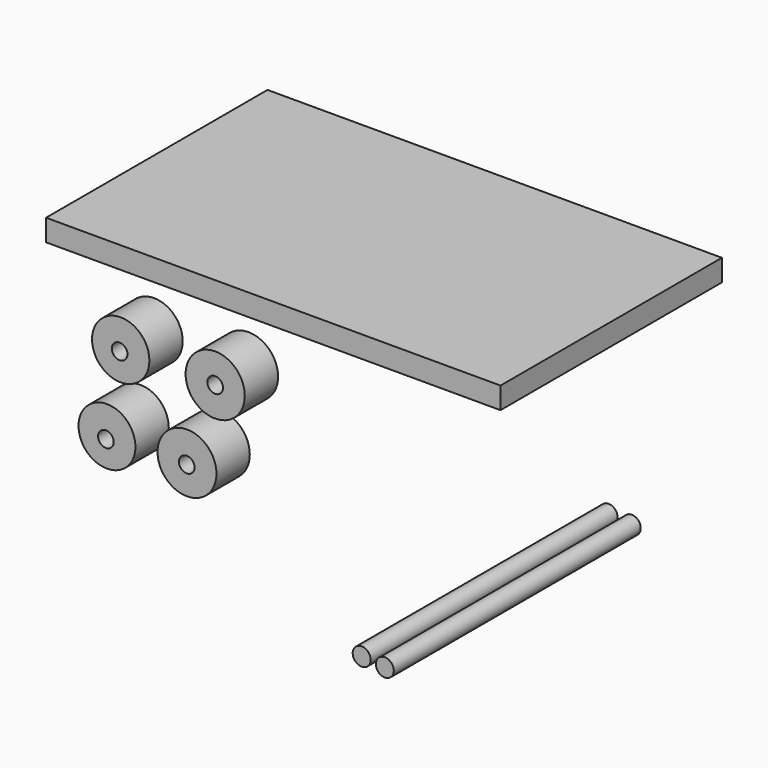
from build123d import *

# Parameters (mm, degrees)
F0_W     = 110.7842847705
F0_H     = 67.478954792
F1_DEPTH = 5.28892
F2_R     = 2.1815082671
F3_DEPTH = 75.25969
F2_R_2   = 2.1905469229
F4_R     = 8.0140895642
F5_DEPTH = 10.16
F4_R_2   = 7.6854396297
F8_R     = 6.9384570924
F9_DEPTH = 10.16
F8_R_2   = 7.1806103859
F8_R_3   = 6.9896641343
F8_R_4   = 7.2163002878
F11_D    = 3.81
F11_2_D  = 3.81
F11_3_D  = 3.81
F11_4_D  = 3.81


with BuildPart() as f1:
    # F0 (on Top) → F1 (new body)
    with BuildSketch(Plane.XY):
        with Locations((-3.0461288989, -0.3221817315)):
            Rectangle(F0_W, F0_H)
    extrude(amount=F1_DEPTH)


with BuildPart() as f3:
    # F2 (on Front) → F3 (new body)
    with BuildSketch(Plane.XZ):
        with Locations((57.1079216897, -36.9122102857)):
            Circle(F2_R)
    extrude(amount=F3_DEPTH)


with BuildPart() as f3b:
    # F2 (on Front) → F3, piece 2 (new body)
    with BuildSketch(Plane.XZ):
        with Locations((51.4614060521, -36.4021025598)):
            Circle(F2_R_2)
    extrude(amount=F3_DEPTH)


with BuildPart() as f5:
    # F4 (on Front) → F5 (new body)
    with BuildSketch(Plane.XZ):
        with Locations((-34.715604037, -49.3302866817)):
            Circle(F4_R)
    extrude(amount=F5_DEPTH)


with BuildPart() as f5b:
    # F4 (on Front) → F5, piece 2 (new body)
    with BuildSketch(Plane.XZ):
        with Locations((-53.678587079, -50.7312454283)):
            Circle(F4_R_2)
    extrude(amount=F5_DEPTH)


with BuildPart() as f9:
    # F8 (on Front) → F9 (new body)
    with BuildSketch(Plane.XZ):
        with Locations((-62.714509666, -52.7455173433)):
            Circle(F8_R)
    extrude(amount=F9_DEPTH)

    # F11 (through all)
    with Locations(Plane(origin=(0, 0, 0), x_dir=(-1, 0, 0), z_dir=(0, 1, 0))):
        with Locations((36.3346636295, -33.1391692162), (59.62478742, -33.5132144392), (62.9757493734, -53.4351728857), (43.2678461075, -52.4832382798)):
            Hole(F11_D / 2)


with BuildPart() as f9b:
    # F8 (on Front) → F9, piece 2 (new body)
    with BuildSketch(Plane.XZ):
        with Locations((-43.2045944035, -52.1009117365)):
            Circle(F8_R_2)
    extrude(amount=F9_DEPTH)

    # F11#2 (through all)
    with Locations(Plane(origin=(0, 0, 0), x_dir=(-1, 0, 0), z_dir=(0, 1, 0))):
        with Locations((36.3346636295, -33.1391692162), (59.62478742, -33.5132144392), (62.9757493734, -53.4351728857), (43.2678461075, -52.4832382798)):
            Hole(F11_2_D / 2)


with BuildPart() as f9c:
    # F8 (on Front) → F9, piece 3 (new body)
    with BuildSketch(Plane.XZ):
        with Locations((-59.3696497381, -33.0945327878)):
            Circle(F8_R_3)
    extrude(amount=F9_DEPTH)

    # F11#3 (through all)
    with Locations(Plane(origin=(0, 0, 0), x_dir=(-1, 0, 0), z_dir=(0, 1, 0))):
        with Locations((36.3346636295, -33.1391692162), (59.62478742, -33.5132144392), (62.9757493734, -53.4351728857), (43.2678461075, -52.4832382798)):
            Hole(F11_3_D / 2)


with BuildPart() as f9d:
    # F8 (on Front) → F9, piece 4 (new body)
    with BuildSketch(Plane.XZ):
        with Locations((-36.3346636295, -33.1391692162)):
            Circle(F8_R_4)
    extrude(amount=F9_DEPTH)

    # F11#4 (through all)
    with Locations(Plane(origin=(0, 0, 0), x_dir=(-1, 0, 0), z_dir=(0, 1, 0))):
        with Locations((36.3346636295, -33.1391692162), (59.62478742, -33.5132144392), (62.9757493734, -53.4351728857), (43.2678461075, -52.4832382798)):
            Hole(F11_4_D / 2)


solid = Compound([f1.part, f3.part, f3b.part, f9.part, f9b.part, f9c.part, f9d.part])
